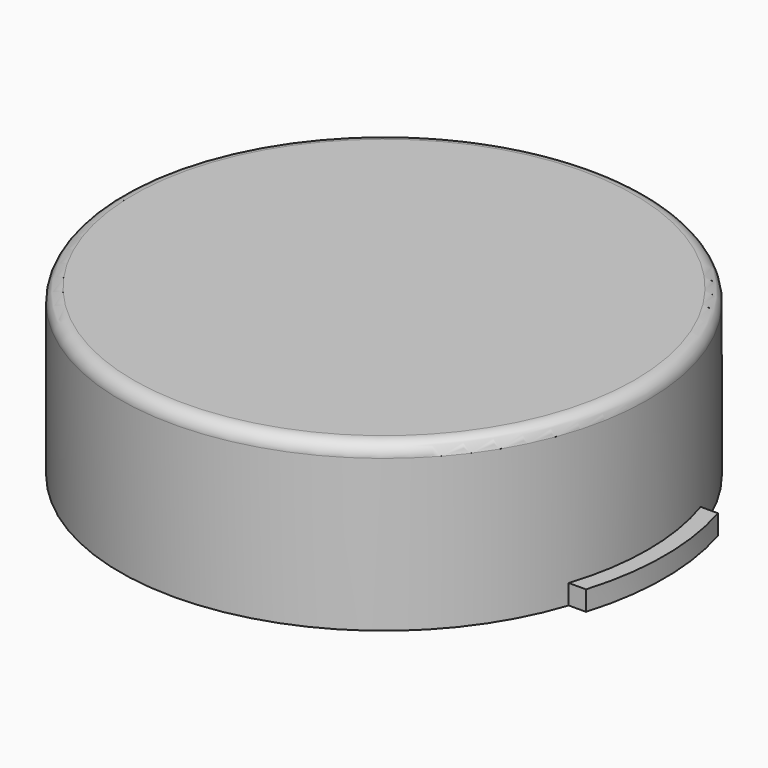
from build123d import *

# Parameters (mm, degrees)
F1_R     = 40
F2_DEPTH = 25
F4_DEPTH = 3
F5_R     = 2


with BuildPart() as f2:
    # F1 (on face) → F2 (new body)
    with BuildSketch(Plane.XY):
        Circle(F1_R)
    extrude(amount=F2_DEPTH)

    # F3 (on face) → F4 (join)
    with BuildSketch(Plane.XY):
        with BuildLine():
            Line((-40.620192, -12.5), (40.620192, -12.5))
            ThreePointArc((40.620192, -12.5), (42.5, 0), (40.620192, 12.5))
            Line((40.620192, 12.5), (-40.620192, 12.5))
            ThreePointArc((-40.620192, 12.5), (-42.5, 0), (-40.620192, -12.5))
        make_face()
    extrude(amount=F4_DEPTH)

    # F5
    f5_edges = [f2.edges().sort_by_distance(p)[0] for p in [
        (-40, 0, 25),
    ]]
    fillet(f5_edges, radius=F5_R)


solid = f2.part
